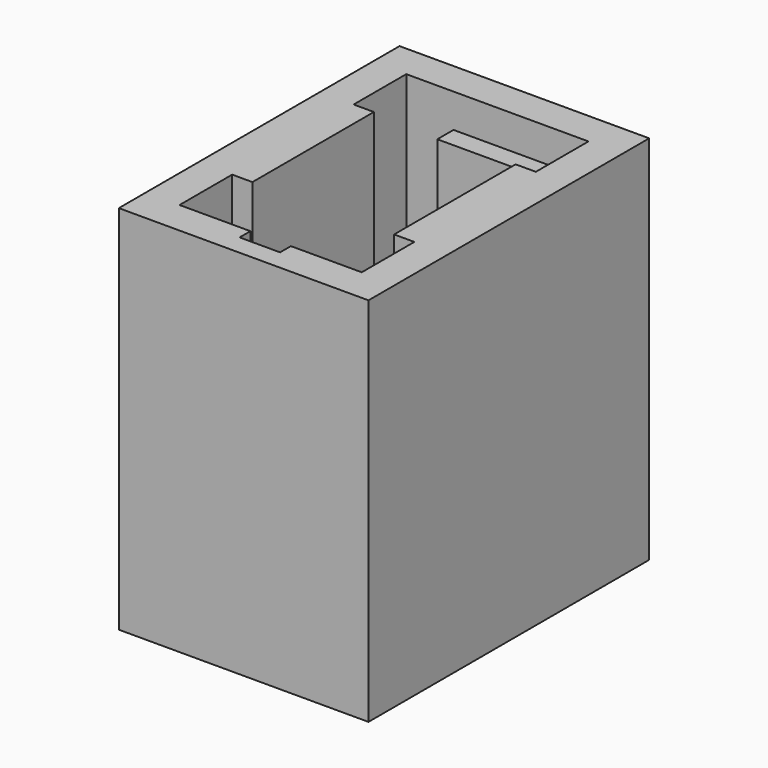
from build123d import *

# Parameters (mm, degrees)
BOX006_W     = 1.2
BOX006_H     = 1
BOX006_DEPTH = 11
BOX002_W     = 5.4
BOX002_H     = 8.4
BOX002_DEPTH = 11
BOX001_W     = 7.4
BOX001_H     = 10.4
BOX001_DEPTH = 11
BOX003_W     = 0.6
BOX003_H     = 4.5
BOX003_DEPTH = 11
BOX004_W     = 2.8
BOX004_H     = 0.6
BOX004_DEPTH = 10
BOX005_W     = 2.8
BOX005_H     = 0.6
BOX005_DEPTH = 10
BOX_W        = 0.6
BOX_H        = 4.5
BOX_DEPTH    = 11


with BuildPart() as cube006:
    # Box006 → Box006 (new body)
    with BuildSketch(Plane(origin=(2.1, -0.4, 0), x_dir=(1, 0, 0), z_dir=(0, 0, 1))):
        with Locations((0.6, 0.5)):
            Rectangle(BOX006_W, BOX006_H)
    extrude(amount=BOX006_DEPTH)


with BuildPart() as cube002:
    # Box002 → Box002 (new body)
    with BuildSketch(Plane.XY):
        with Locations((2.7, 4.2)):
            Rectangle(BOX002_W, BOX002_H)
    extrude(amount=BOX002_DEPTH)


with BuildPart() as cut:
    # Box001 → Box001 (new body)
    with BuildSketch(Plane(origin=(-1, -1, 0), x_dir=(1, 0, 0), z_dir=(0, 0, 1))):
        with Locations((3.7, 5.2)):
            Rectangle(BOX001_W, BOX001_H)
    extrude(amount=BOX001_DEPTH)

    # Cut: cut Cube002
    add(cube002.part, mode=Mode.SUBTRACT)


with BuildPart() as cube003:
    # Box003 → Box003 (new body)
    with BuildSketch(Plane(origin=(4.8, 1.95, 0), x_dir=(1, 0, 0), z_dir=(0, 0, 1))):
        with Locations((0.3, 2.25)):
            Rectangle(BOX003_W, BOX003_H)
    extrude(amount=BOX003_DEPTH)


with BuildPart() as cube004:
    # Box004 → Box004 (new body)
    with BuildSketch(Plane(origin=(1.4, 0, 0), x_dir=(1, 0, 0), z_dir=(0, 0, 1))):
        with Locations((1.4, 0.3)):
            Rectangle(BOX004_W, BOX004_H)
    extrude(amount=BOX004_DEPTH)


with BuildPart() as cube005:
    # Box005 → Box005 (new body)
    with BuildSketch(Plane(origin=(1.4, 7.8, 0), x_dir=(1, 0, 0), z_dir=(0, 0, 1))):
        with Locations((1.4, 0.3)):
            Rectangle(BOX005_W, BOX005_H)
    extrude(amount=BOX005_DEPTH)


with BuildPart() as cut001:
    # Box → Box (new body)
    with BuildSketch(Plane(origin=(0, 1.95, 0), x_dir=(1, 0, 0), z_dir=(0, 0, 1))):
        with Locations((0.3, 2.25)):
            Rectangle(BOX_W, BOX_H)
    extrude(amount=BOX_DEPTH)

    # Fusion: union Cut, Cube003, Cube004, Cube005
    add(cut.part)
    add(cube003.part)
    add(cube004.part)
    add(cube005.part)

    # Cut001: cut Cube006
    add(cube006.part, mode=Mode.SUBTRACT)


solid = cut001.part
